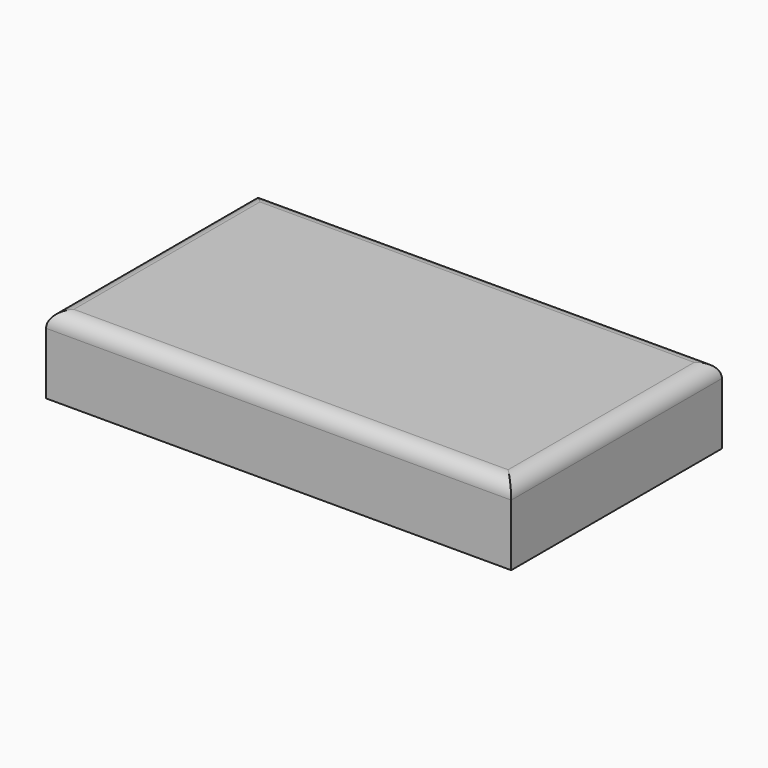
from build123d import *

# Parameters (mm, degrees)
F0_W     = 153.124735
F0_H     = 86.703286
F1_DEPTH = 25.4
F2_R     = 5.08
F3_T     = -2.54


with BuildPart() as f1:
    # F0 (on Top) → F1 (new body)
    with BuildSketch(Plane.XY):
        with Locations((76.562367, -43.351643)):
            Rectangle(F0_W, F0_H)
    extrude(amount=F1_DEPTH)

    # F2
    f2_edges = [f1.edges().sort_by_distance(p)[0] for p in [
        (0, -43.351643, 25.4),
        (76.562367, -86.703286, 25.4),
        (76.562367, 0, 25.4),
        (153.124735, -43.351643, 25.4),
    ]]
    fillet(f2_edges, radius=F2_R)

    # F3
    f3_openings = [f1.faces().sort_by_distance(p)[0] for p in [
        (76.562367, -43.351643, 0),
    ]]
    offset(amount=F3_T, openings=f3_openings)


solid = f1.part
